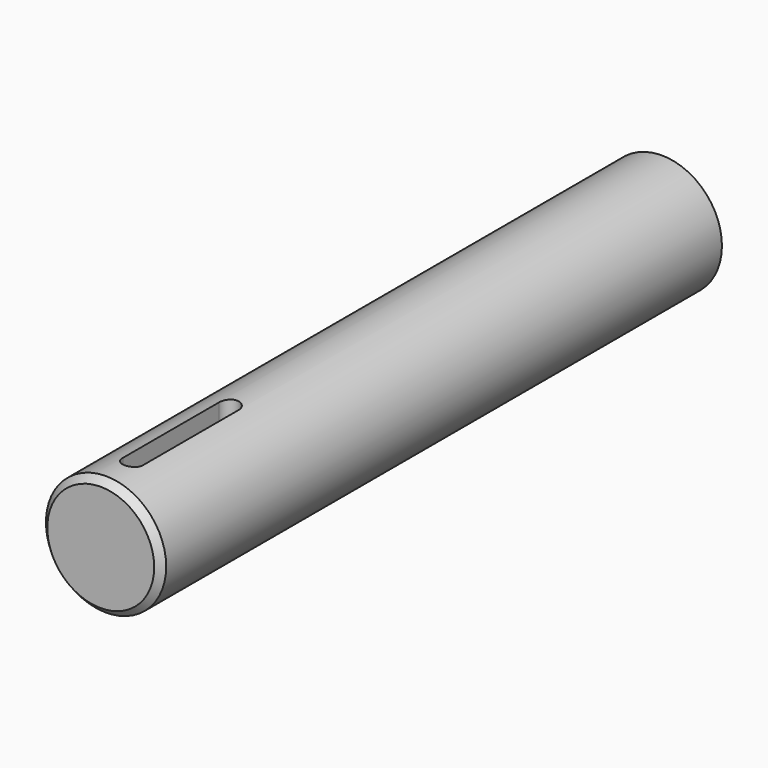
from build123d import *

# Parameters (mm, degrees)
F0_R     = 9
F1_DEPTH = 105
F2_SIZE  = 1
F5_DEPTH = 25


with BuildPart() as f1:
    # F0 (on Front) → F1 (new body)
    with BuildSketch(Plane.XZ):
        Circle(F0_R)
    extrude(amount=F1_DEPTH)

    # F2
    f2_edges = [f1.edges().sort_by_distance(p)[0] for p in [
        (-9, -105, 0),
    ]]
    chamfer(f2_edges, length=F2_SIZE)

    # F4 (on offset) → F5 (cut)
    with BuildSketch(Plane.XY.offset(6)):
        with BuildLine():
            ThreePointArc((1.5, -81), (0, -79.5), (-1.5, -81))
            Line((-1.5, -81), (-1.5, -99))
            ThreePointArc((-1.5, -99), (0, -100.5), (1.5, -99))
            Line((1.5, -99), (1.5, -81))
        make_face()
    extrude(amount=F5_DEPTH, mode=Mode.SUBTRACT)


solid = f1.part
